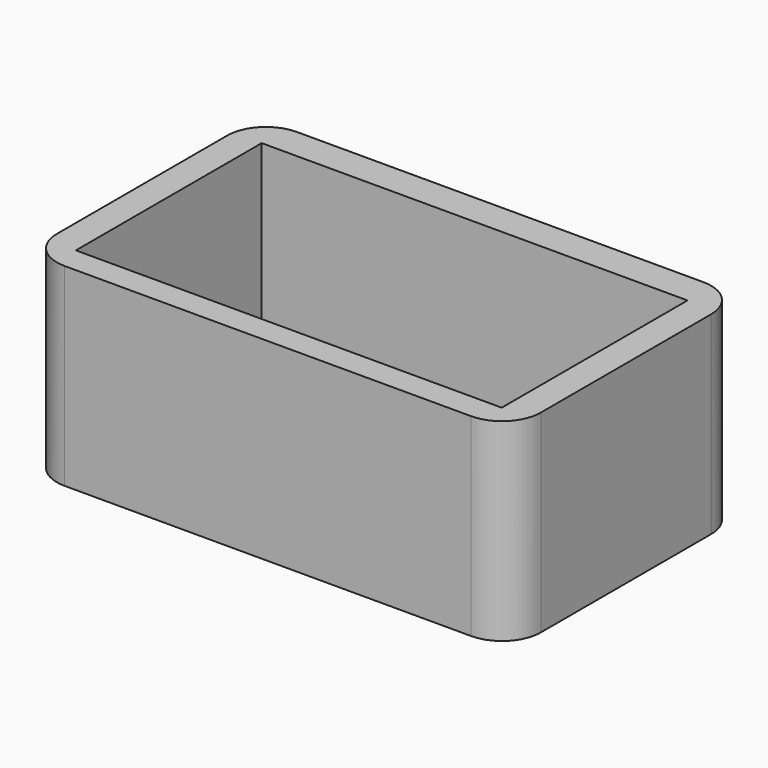
from build123d import *

# Parameters (mm, degrees)
F0_W     = 250
F0_H     = 150
F1_DEPTH = 100
F2_W     = 220
F2_H     = 120
F3_DEPTH = 90
F4_R     = 20


with BuildPart() as f1:
    # F0 (on Top) → F1 (new body)
    with BuildSketch(Plane.XY):
        Rectangle(F0_W, F0_H)
    extrude(amount=F1_DEPTH)

    # F2 (on face) → F3 (cut)
    with BuildSketch(Plane.XY.offset(100)):
        with Locations((0, -1.488753)):
            Rectangle(F2_W, F2_H)
    extrude(amount=-F3_DEPTH, mode=Mode.SUBTRACT)

    # F4
    f4_edges = [f1.edges().sort_by_distance(p)[0] for p in [
        (125, -75, 50),
        (125, 75, 50),
        (-125, 75, 50),
        (-125, -75, 50),
    ]]
    fillet(f4_edges, radius=F4_R)


solid = f1.part
